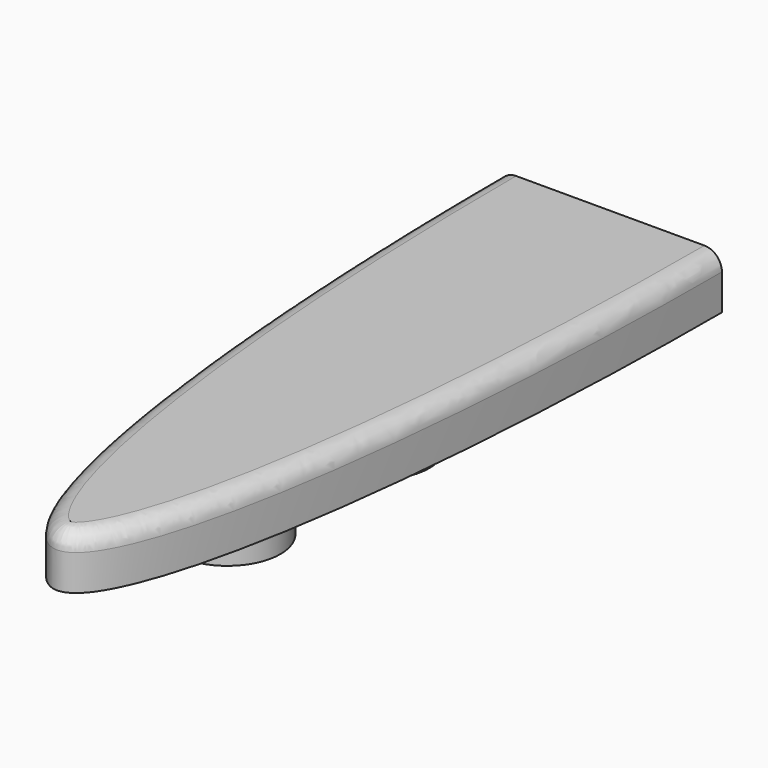
from build123d import *

# Parameters (mm, degrees)
PAD_DEPTH           = 10
FILLET001_R         = 3.3
SKETCH005_R         = 10
PAD003_DEPTH        = 7
SKETCH006_R         = 5
POCKET_DEPTH        = 8
LINEARPATTERN_COUNT = 3
LINEARPATTERN_PITCH = 35


with BuildPart() as part:
    # Sketch → Pad (new body)
    with BuildSketch(Plane.XY):
        with BuildLine():
            add(Edge.make_bspline(
                [(-21, 0), (-21, -130), (0, -130), (21, -130), (21, 0)],
                knots=[4.712389, 4.712389, 4.712389, 6.283185, 6.283185, 7.853982, 7.853982, 7.853982], degree=2, weights=[1, 0.707107, 1, 0.707107, 1]))
            Line((21, 0), (-21, 0))
        make_face()
    extrude(amount=PAD_DEPTH)

    # Fillet001
    fillet001_edges = [part.edges().sort_by_distance(p)[0] for p in [
        (0.349656, -129.981979, 10),
    ]]
    fillet(fillet001_edges, radius=FILLET001_R)

    # Sketch005 → Pad003 (join)
    with BuildSketch(Plane.XY):
        with Locations((0, -90)):
            Circle(SKETCH005_R)
    pad003 = extrude(amount=-PAD003_DEPTH)

    # Sketch006 (on Face7 of Pad003) → Pocket (cut)
    with BuildSketch(Plane(origin=(0, 0, -7), x_dir=(1, 0, 0), z_dir=(0, 0, -1))):
        with Locations((0, 90)):
            Circle(SKETCH006_R)
    pocket = extrude(amount=-POCKET_DEPTH, mode=Mode.SUBTRACT)

    # LinearPattern: Pad003, Pocket ×3
    with Locations(*[(0, i * LINEARPATTERN_PITCH, 0) for i in range(1, LINEARPATTERN_COUNT)]):
        add(pad003)
        add(pocket, mode=Mode.SUBTRACT)


solid = part.part
